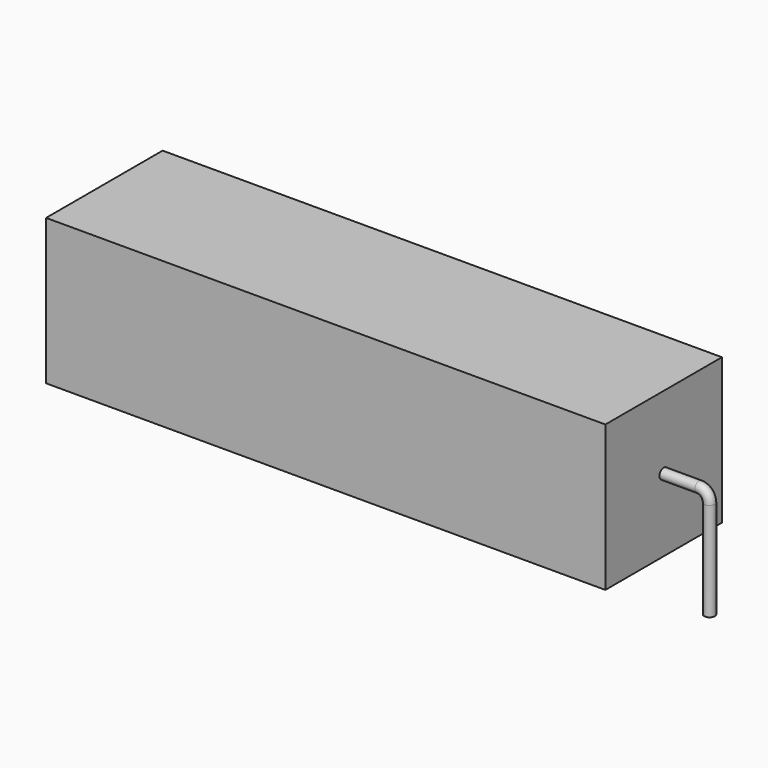
from build123d import *

# Parameters (mm, degrees)
SKETCH_R    = 0.45
SKETCH002_W = 48
SKETCH002_H = 12.5
PAD_DEPTH   = 6.25


with BuildPart() as sweep_body:
    # Sweep: sweep along a path in Sketch001
    with BuildLine(Plane.XZ) as sweep_path:
        Line((0, -3), (0, 5.45))
        ThreePointArc((0, 5.45), (0.263608, 6.0864), (0.900012, 6.35))
        Line((0.900012, 6.35), (54.98, 6.35))
        ThreePointArc((54.98, 6.35), (55.616396, 6.086396), (55.88, 5.45))
        Line((55.88, 5.45), (55.88, -3))
    # Sketch → Sweep (sweep)
    with BuildSketch(Plane.XY.offset(-2)):
        Circle(SKETCH_R)
    sweep(path=sweep_path.line)


with BuildPart() as pad:
    # Sketch002 → Pad (new body, symmetric)
    with BuildSketch(Plane.XZ):
        with Locations((27.94, 6.35)):
            Rectangle(SKETCH002_W, SKETCH002_H)
    extrude(amount=PAD_DEPTH, both=True)


solid = Compound([sweep_body.part, pad.part])
